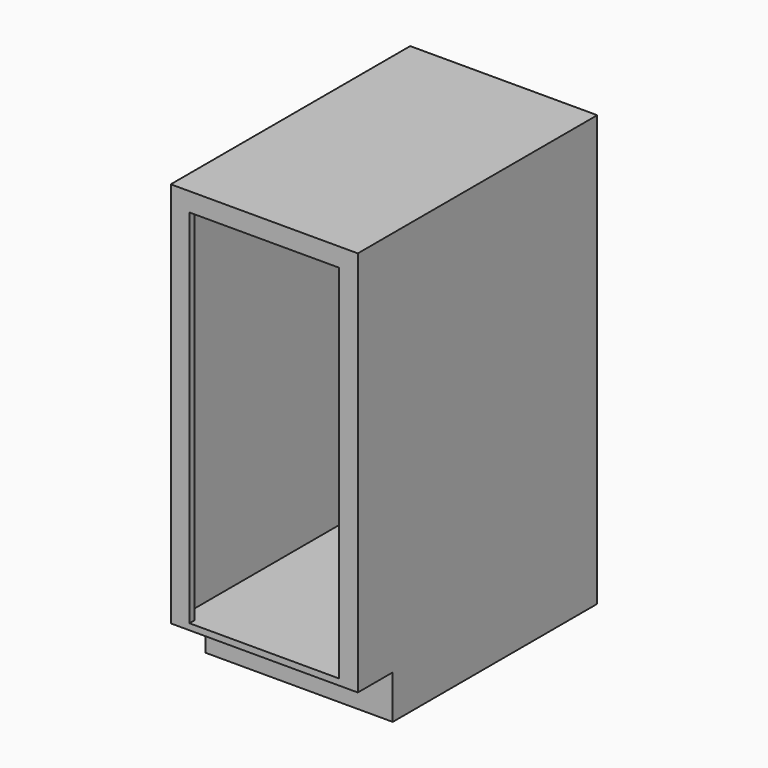
from build123d import *

# Parameters (mm, degrees)
F0_W     = 381
F0_H     = 609.6
F1_DEPTH = 876.3
F2_W     = 381
F2_H     = 88.9
F3_DEPTH = 88.9
F4_T     = -12.7
F5_DEPTH = 88.9
F6_W     = 381
F6_H     = 787.4
F7_DEPTH = 12.7


with BuildPart() as f1:
    # F0 (on Top) → F1 (new body)
    with BuildSketch(Plane.XY):
        with Locations((190.5, -304.8)):
            Rectangle(F0_W, F0_H)
    extrude(amount=F1_DEPTH)

    # F2 (on face) → F3 (cut)
    with BuildSketch(Plane.XZ.offset(609.6)):
        with Locations((190.5, 44.45)):
            Rectangle(F2_W, F2_H)
    extrude(amount=-F3_DEPTH, mode=Mode.SUBTRACT)

    # F4
    f4_openings = [f1.faces().sort_by_distance(p)[0] for p in [
        (190.5, -609.6, 482.6),
    ]]
    offset(amount=F4_T, openings=f4_openings, kind=Kind.INTERSECTION)

    # F5 (add, through all): a face of the model
    f5_faces = [f1.faces().sort_by_distance(p)[0] for p in [
        (190.5, -260.35, 12.7),
    ]]
    extrude(f5_faces, amount=F5_DEPTH)

    # F6 (on face) → F7 (join)
    with BuildSketch(Plane.XZ.offset(609.6)):
        with Locations((190.5, 482.6)):
            Rectangle(F6_W, F6_H)
        Polygon((342.9, 101.6), (38.1, 101.6), (12.7, 101.6), (12.7, 863.6), (368.3, 863.6), (368.3, 101.6), align=None, mode=Mode.SUBTRACT)
        Polygon((38.1, 101.6), (38.1, 838.2), (342.9, 838.2), (342.9, 101.6), (368.3, 101.6), (368.3, 863.6), (12.7, 863.6), (12.7, 101.6), align=None)
    extrude(amount=-F7_DEPTH)


solid = f1.part
